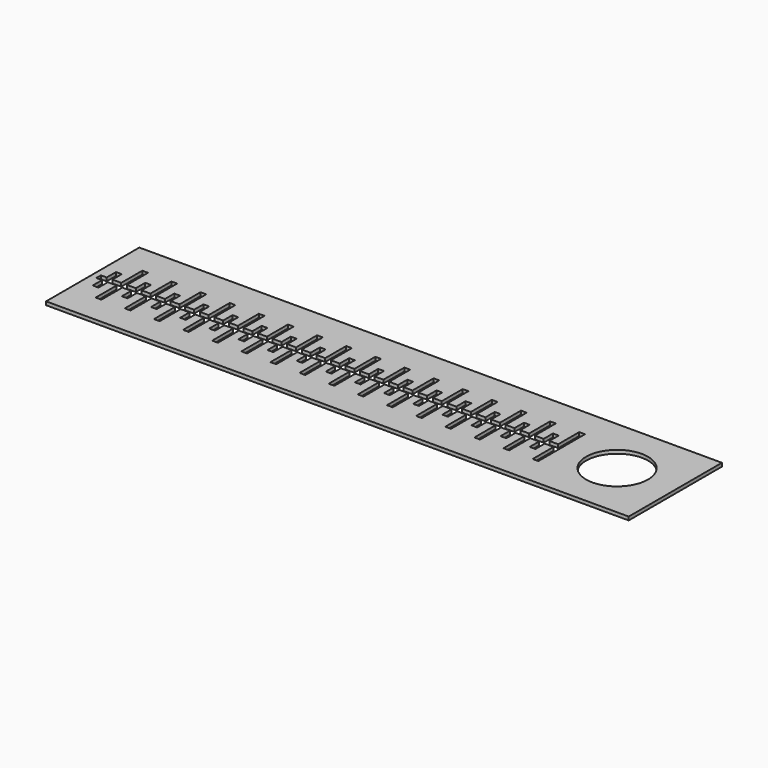
from build123d import *

# Parameters (mm, degrees)
F1_DEPTH = 0.75
F2_D     = 13.49248
F0_W     = 1.3020353615
F0_H     = 1.25
F3_DEPTH = 0.75
F4_SCALE = 1.05


with BuildPart() as f1:
    # F0 (on Top) → F1 (new body)
    with BuildSketch(Plane.XY):
        Polygon((-63.5, -12.7), (63.5, -12.7), (63.5, 12.7), (-63.5, 12.7), (-63.5, 1.7440723022), (-63.5, 0.625), (-62.1979646385, 0.625), (-60.95, 0.625), (-60.95, 3.175), (-59.7, 3.175), (-59.7, 0.625), (-57.775, 0.625), (-57.775, 6.35), (-56.525, 6.35), (-56.525, 0.625), (-54.6, 0.625), (-54.6, 3.175), (-53.35, 3.175), (-53.35, 0.625), (-51.425, 0.625), (-51.425, 6.35), (-50.175, 6.35), (-50.175, 0.625), (-48.25, 0.625), (-48.25, 3.175), (-47, 3.175), (-47, 0.625), (-45.075, 0.625), (-45.075, 6.35), (-43.825, 6.35), (-43.825, 0.625), (-41.9, 0.625), (-41.9, 3.175), (-40.65, 3.175), (-40.65, 0.625), (-38.725, 0.625), (-38.725, 6.35), (-37.475, 6.35), (-37.475, 0.625), (-35.55, 0.625), (-35.55, 3.175), (-34.3, 3.175), (-34.3, 0.625), (-32.375, 0.625), (-32.375, 6.35), (-31.125, 6.35), (-31.125, 0.625), (-29.2, 0.625), (-29.2, 3.175), (-27.95, 3.175), (-27.95, 0.625), (-26.025, 0.625), (-26.025, 6.35), (-24.775, 6.35), (-24.775, 0.625), (-22.85, 0.625), (-22.85, 3.175), (-21.6, 3.175), (-21.6, 0.625), (-19.675, 0.625), (-19.675, 6.35), (-18.425, 6.35), (-18.425, 0.625), (-16.5, 0.625), (-16.5, 3.175), (-15.25, 3.175), (-15.25, 0.625), (-13.325, 0.625), (-13.325, 6.35), (-12.075, 6.35), (-12.075, 0.625), (-10.15, 0.625), (-10.15, 3.175), (-8.9, 3.175), (-8.9, 0.625), (-6.975, 0.625), (-6.975, 6.35), (-5.725, 6.35), (-5.725, 0.625), (-3.8, 0.625), (-3.8, 3.175), (-2.55, 3.175), (-2.55, 0.625), (-0.625, 0.625), (-0.625, 6.35), (0.625, 6.35), (0.625, 0.625), (2.55, 0.625), (2.55, 3.175), (3.8, 3.175), (3.8, 0.625), (5.725, 0.625), (5.725, 6.35), (6.975, 6.35), (6.975, 0.625), (8.9, 0.625), (8.9, 3.175), (10.15, 3.175), (10.15, 0.625), (12.075, 0.625), (12.075, 6.35), (13.325, 6.35), (13.325, 0.625), (15.25, 0.625), (15.25, 3.175), (16.5, 3.175), (16.5, 0.625), (18.425, 0.625), (18.425, 6.35), (19.675, 6.35), (19.675, 0.625), (21.6, 0.625), (21.6, 3.175), (22.85, 3.175), (22.85, 0.625), (24.775, 0.625), (24.775, 6.35), (26.025, 6.35), (26.025, 0.625), (27.95, 0.625), (27.95, 3.175), (29.2, 3.175), (29.2, 0.625), (31.125, 0.625), (31.125, 6.35), (32.375, 6.35), (32.375, 0.625), (34.3, 0.625), (34.3, 3.175), (35.55, 3.175), (35.55, 0.625), (37.475, 0.625), (37.475, 6.35), (38.725, 6.35), (38.725, -6.35), (37.475, -6.35), (37.475, -0.625), (35.55, -0.625), (35.55, -3.175), (34.3, -3.175), (34.3, -0.625), (32.375, -0.625), (32.375, -6.35), (31.125, -6.35), (31.125, -0.625), (29.2, -0.625), (29.2, -3.175), (27.95, -3.175), (27.95, -0.625), (26.025, -0.625), (26.025, -6.35), (24.775, -6.35), (24.775, -0.625), (22.85, -0.625), (22.85, -3.175), (21.6, -3.175), (21.6, -0.625), (19.675, -0.625), (19.675, -6.35), (18.425, -6.35), (18.425, -0.625), (16.5, -0.625), (16.5, -3.175), (15.25, -3.175), (15.25, -0.625), (13.325, -0.625), (13.325, -6.35), (12.075, -6.35), (12.075, -0.625), (10.15, -0.625), (10.15, -3.175), (8.9, -3.175), (8.9, -0.625), (6.975, -0.625), (6.975, -6.35), (5.725, -6.35), (5.725, -0.625), (3.8, -0.625), (3.8, -3.175), (2.55, -3.175), (2.55, -0.625), (0.625, -0.625), (0.625, -6.35), (-0.625, -6.35), (-0.625, -0.625), (-2.55, -0.625), (-2.55, -3.175), (-3.8, -3.175), (-3.8, -0.625), (-5.725, -0.625), (-5.725, -6.35), (-6.975, -6.35), (-6.975, -0.625), (-8.9, -0.625), (-8.9, -3.175), (-10.15, -3.175), (-10.15, -0.625), (-12.075, -0.625), (-12.075, -6.35), (-13.325, -6.35), (-13.325, -0.625), (-15.25, -0.625), (-15.25, -3.175), (-16.5, -3.175), (-16.5, -0.625), (-18.425, -0.625), (-18.425, -6.35), (-19.675, -6.35), (-19.675, -0.625), (-21.6, -0.625), (-21.6, -3.175), (-22.85, -3.175), (-22.85, -0.625), (-24.775, -0.625), (-24.775, -6.35), (-26.025, -6.35), (-26.025, -0.625), (-27.95, -0.625), (-27.95, -3.175), (-29.2, -3.175), (-29.2, -0.625), (-31.125, -0.625), (-31.125, -6.35), (-32.375, -6.35), (-32.375, -0.625), (-34.3, -0.625), (-34.3, -3.175), (-35.55, -3.175), (-35.55, -0.625), (-37.475, -0.625), (-37.475, -6.35), (-38.725, -6.35), (-38.725, -0.625), (-40.65, -0.625), (-40.65, -3.175), (-41.9, -3.175), (-41.9, -0.625), (-43.825, -0.625), (-43.825, -6.35), (-45.075, -6.35), (-45.075, -0.625), (-47, -0.625), (-47, -3.175), (-48.25, -3.175), (-48.25, -0.625), (-50.175, -0.625), (-50.175, -6.35), (-51.425, -6.35), (-51.425, -0.625), (-53.35, -0.625), (-53.35, -3.175), (-54.6, -3.175), (-54.6, -0.625), (-56.525, -0.625), (-56.525, -6.35), (-57.775, -6.35), (-57.775, -0.625), (-59.7, -0.625), (-59.7, -3.175), (-60.95, -3.175), (-60.95, -0.625), (-62.1979646385, -0.625), (-63.5, -0.625), (-63.5, -1.6545188846), align=None)
    extrude(amount=F1_DEPTH)

    # F2 (through all)
    with Locations(Plane(origin=(0, 0, 0), x_dir=(1, 0, 0), z_dir=(0, 0, -1))):
        with Locations((50.8, 0)):
            Hole(F2_D / 2)

    # F0 (on Top) → F3 (join)
    with BuildSketch(Plane.XY):
        with Locations((-62.8489823192, 0)):
            Rectangle(F0_W, F0_H)
    extrude(amount=F3_DEPTH)


with BuildPart() as f1_1:
    # F4: moved
    add(f1.part.scale(F4_SCALE))


solid = f1_1.part
